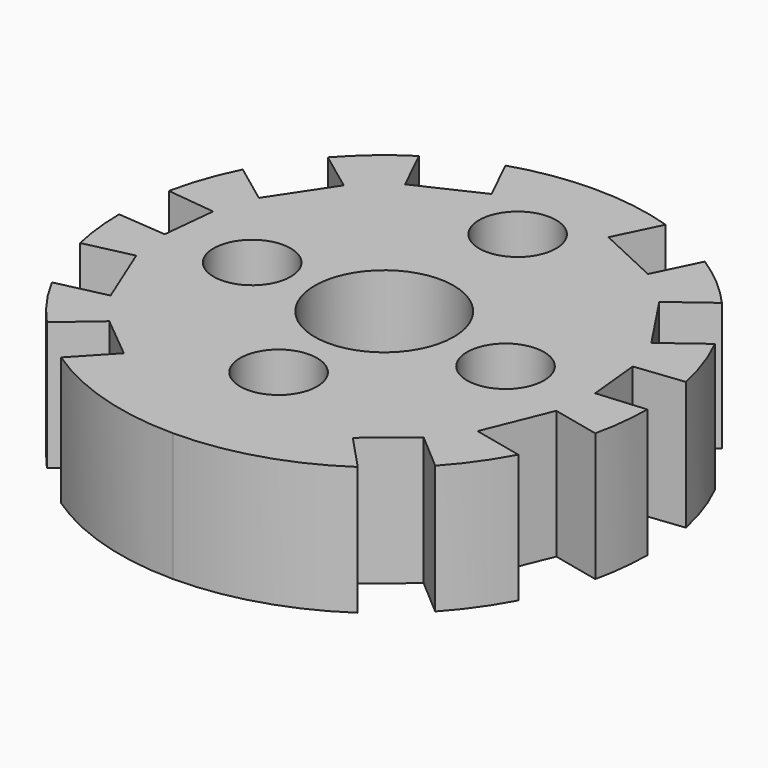
from build123d import *

# Parameters (mm, degrees)
F0_R     = 7.5
F0_R_2   = 13.533
F1_DEPTH = 25
F2_DEPTH = 0.4
F3_DEPTH = 25


with BuildPart() as f1:
    # F0 (on Top) → F1 (new body)
    with BuildSketch(Plane.XY):
        with BuildLine():
            ThreePointArc((-28.885683, -42.552377), (-15.109618, -49.160827), (0, -51.430414))
            ThreePointArc((0, -51.430414), (15.109618, -49.160827), (28.885683, -42.552377))
            Line((28.885683, -42.552377), (22.292488, -35.519605))
            Line((22.292488, -35.519605), (30.606489, -28.667756))
            Line((30.606489, -28.667756), (37.815153, -34.858308))
            ThreePointArc((37.815153, -34.858308), (41.960361, -29.739125), (45.41727, -24.132116))
            Line((45.41727, -24.132116), (35.735177, -21.945261))
            Line((35.735177, -21.945261), (40.905213, -9.239094))
            Line((40.905213, -9.239094), (50.166693, -11.330947))
            ThreePointArc((50.166693, -11.330947), (51.099803, -5.82216), (51.429832, -0.24466))
            Line((51.429832, -0.24466), (41.922666, -1.042791))
            Line((41.922666, -1.042791), (40.863441, 9.422129))
            Line((40.863441, 9.422129), (50.346898, 10.5013))
            ThreePointArc((50.346898, 10.5013), (48.5709, 16.910209), (45.982751, 23.036363))
            Line((45.982751, 23.036363), (38.221147, 17.255182))
            Line((38.221147, 17.255182), (30.721983, 28.543951))
            Line((30.721983, 28.543951), (38.373263, 34.242958))
            ThreePointArc((38.373263, 34.242958), (33.412506, 39.09849), (27.843076, 43.241769))
            Line((27.843076, 43.241769), (23.645456, 34.633651))
            Line((23.645456, 34.633651), (11.384548, 40.360741))
            Line((11.384548, 40.360741), (15.600841, 49.007155))
            ThreePointArc((15.600841, 49.007155), (7.89396, 50.820988), (0, 51.430414))
            ThreePointArc((0, 51.430414), (-7.89396, 50.820988), (-15.600841, 49.007155))
            Line((-15.600841, 49.007155), (-11.384548, 40.360741))
            Line((-11.384548, 40.360741), (-23.645456, 34.633651))
            Line((-23.645456, 34.633651), (-27.843076, 43.241769))
            ThreePointArc((-27.843076, 43.241769), (-33.412506, 39.09849), (-38.373263, 34.242958))
            Line((-38.373263, 34.242958), (-30.721983, 28.543951))
            Line((-30.721983, 28.543951), (-38.221147, 17.255182))
            Line((-38.221147, 17.255182), (-45.982751, 23.036363))
            ThreePointArc((-45.982751, 23.036363), (-48.5709, 16.910209), (-50.346898, 10.5013))
            Line((-50.346898, 10.5013), (-40.863441, 9.422129))
            Line((-40.863441, 9.422129), (-41.922666, -1.042791))
            Line((-41.922666, -1.042791), (-51.429832, -0.24466))
            ThreePointArc((-51.429832, -0.24466), (-51.099803, -5.82216), (-50.166693, -11.330947))
            Line((-50.166693, -11.330947), (-40.905213, -9.239094))
            Line((-40.905213, -9.239094), (-35.735177, -21.945261))
            Line((-35.735177, -21.945261), (-45.41727, -24.132116))
            ThreePointArc((-45.41727, -24.132116), (-41.960361, -29.739125), (-37.815153, -34.858308))
            Line((-37.815153, -34.858308), (-30.606489, -28.667756))
            Line((-30.606489, -28.667756), (-22.292488, -35.519605))
            Line((-22.292488, -35.519605), (-28.885683, -42.552377))
        make_face()
        with Locations((-25.715207, 0)):
            Circle(F0_R, mode=Mode.SUBTRACT)
        with Locations((0, -25.715207)):
            Circle(F0_R, mode=Mode.SUBTRACT)
        Circle(F0_R_2, mode=Mode.SUBTRACT)
        with Locations((25.715207, -2.612802)):
            Circle(F0_R, mode=Mode.SUBTRACT)
        with Locations((0, 32.481707)):
            Circle(F0_R, mode=Mode.SUBTRACT)
    extrude(amount=F1_DEPTH)

    # F0 (on Top) → F2 (cut)
    with BuildSketch(Plane.XY):
        Circle(F0_R_2)
    extrude(amount=-F2_DEPTH, mode=Mode.SUBTRACT)

    # F0 (on Top) → F3 (cut)
    with BuildSketch(Plane.XY):
        with Locations((0, 32.481707)):
            Circle(F0_R)
        with Locations((-25.715207, 0)):
            Circle(F0_R)
        with Locations((25.715207, -2.612802)):
            Circle(F0_R)
        with Locations((0, -25.715207)):
            Circle(F0_R)
    extrude(amount=-F3_DEPTH, mode=Mode.SUBTRACT)


solid = f1.part
